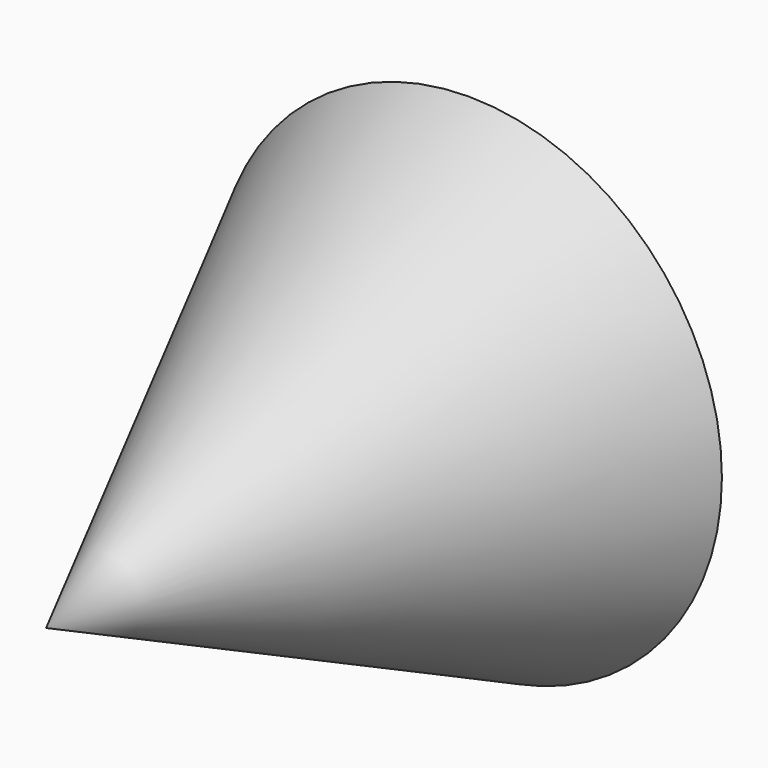
from build123d import *


with BuildPart() as f1:
    # F0 (on Top) → F1 (revolve)
    with BuildSketch(Plane.XY):
        Polygon((55.231087, 55.010151), (0, 56.777544), (0, -60.312342), align=None)
    revolve(axis=Axis((0, -1.767399, 0), (0, -1, 0)))


solid = f1.part
